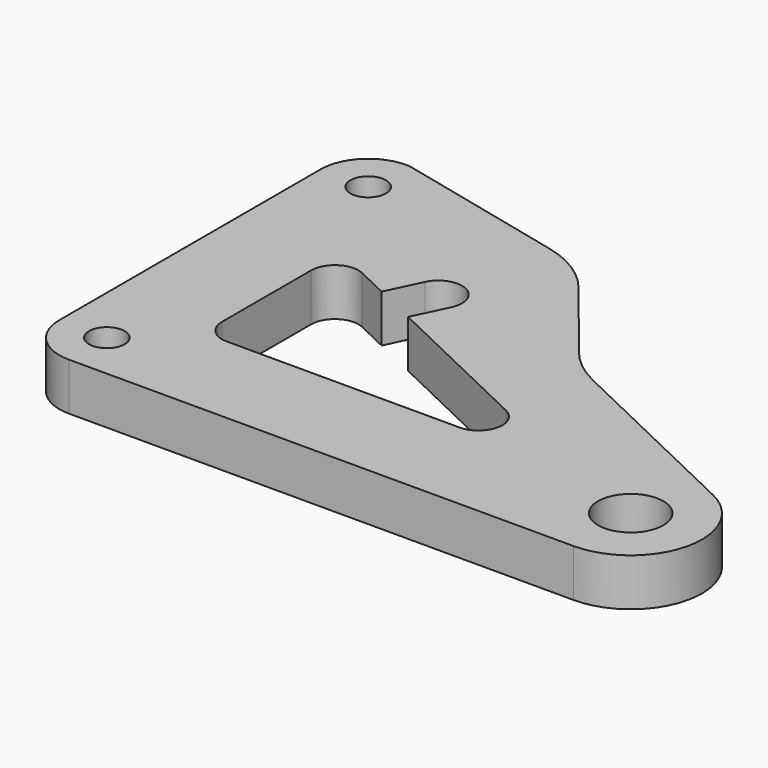
from build123d import *

# Parameters (mm, degrees)
F0_R     = 3
F0_R_2   = 5.5
F1_DEPTH = 8
F2_R     = 18


with BuildPart() as f1:
    # F0 (on Top) → F1 (new body)
    with BuildSketch(Plane.XY):
        with BuildLine():
            ThreePointArc((8.685422, 70.970583), (2.590905, 68.894208), (0, 63))
            Line((0, 63), (0, 8))
            ThreePointArc((0, 8), (2.343146, 2.343146), (8, 0))
            Line((8, 0), (93, 0))
            ThreePointArc((93, 0), (104.702957, 9.346551), (98.175532, 22.826535))
            Line((98.175532, 22.826535), (61.6736, 40.275971))
            Line((61.6736, 40.275971), (43.620393, 62.728427))
            Line((43.620393, 62.728427), (8.685422, 70.970583))
        make_face()
        with Locations((8, 8)):
            Circle(F0_R, mode=Mode.SUBTRACT)
        with BuildLine():
            Line((17, 21), (17, 39.730763))
            ThreePointArc((17, 39.730763), (18.86701, 43.1146), (22.725177, 43.339608))
            Line((22.725177, 43.339608), (28.013733, 40.811459))
            Line((28.013733, 40.811459), (30.749989, 46.535348))
            ThreePointArc((30.749989, 46.535348), (36.084011, 48.419016), (37.967679, 43.084993))
            Line((37.967679, 43.084993), (35.231423, 37.361104))
            Line((35.231423, 37.361104), (61.907477, 24.608845))
            ThreePointArc((61.907477, 24.608845), (64.083285, 20.115517), (60.182299, 17))
            Line((60.182299, 17), (21, 17))
            ThreePointArc((21, 17), (18.171573, 18.171573), (17, 21))
        make_face(mode=Mode.SUBTRACT)
        with Locations((93, 12)):
            Circle(F0_R_2, mode=Mode.SUBTRACT)
        with Locations((8, 63)):
            Circle(F0_R, mode=Mode.SUBTRACT)
    extrude(amount=F1_DEPTH)

    # F2
    f2_edges = [f1.edges().sort_by_distance(p)[0] for p in [
        (43.620393, 62.728427, 4),
        (61.6736, 40.275971, 4),
    ]]
    fillet(f2_edges, radius=F2_R)


solid = f1.part
